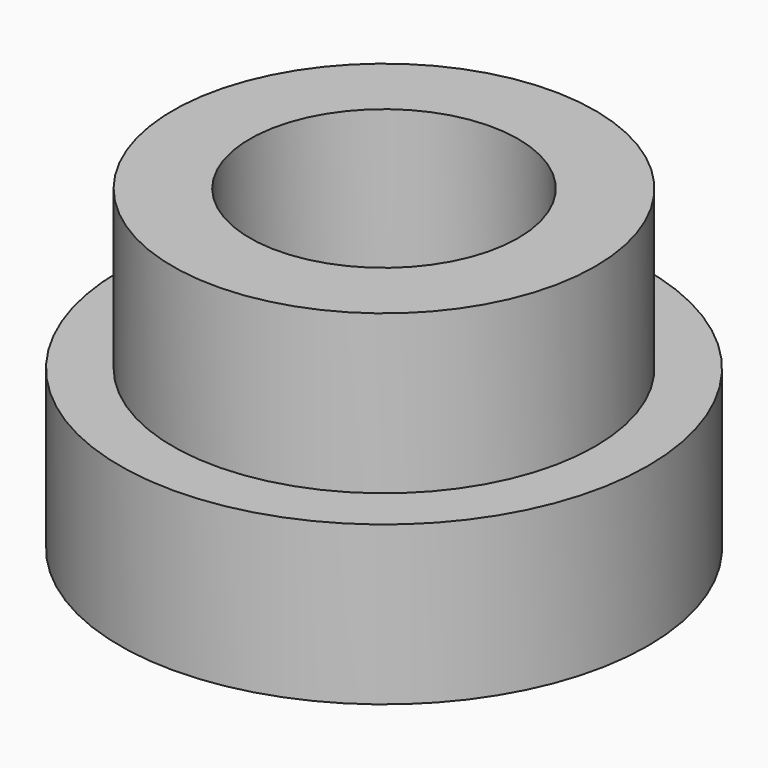
from build123d import *

# Parameters (mm, degrees)
F2_R     = 25
F2_R_2   = 20
F3_DEPTH = 15
F4_DEPTH = 30
F5_R     = 12.7094
F6_DEPTH = 15


with BuildPart() as f3:
    # F2 (on Top) → F3 (new body)
    with BuildSketch(Plane.XY):
        Circle(F2_R)
        Circle(F2_R_2, mode=Mode.SUBTRACT)
    extrude(amount=F3_DEPTH)

    # F2 (on Top) → F4 (join)
    with BuildSketch(Plane.XY):
        Circle(F2_R_2)
    extrude(amount=F4_DEPTH)

    # F5 (on face) → F6 (cut)
    with BuildSketch(Plane.XY.offset(30)):
        Circle(F5_R)
    extrude(amount=-F6_DEPTH, mode=Mode.SUBTRACT)


solid = f3.part
